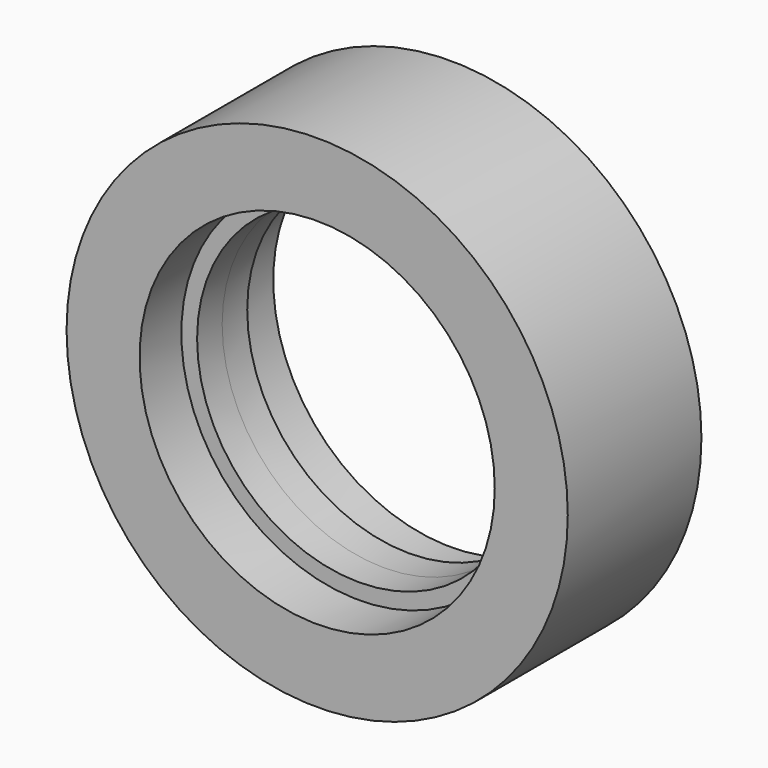
from build123d import *

# Parameters (mm, degrees)
F0_R     = 304.8
F0_R_2   = 196.85
F1_DEPTH = 38.1
F2_R     = 304.8
F2_R_2   = 215.9889
F3_DEPTH = 63.5


with BuildPart() as f1:
    # F0 (on Front) → F1 (new body)
    with BuildSketch(Plane.XZ):
        Circle(F0_R)
        Circle(F0_R_2, mode=Mode.SUBTRACT)
    extrude(amount=F1_DEPTH)

    # F2 (on face) → F3 (join)
    with BuildSketch(Plane.XZ.offset(38.1)):
        Circle(F2_R)
        Circle(F2_R_2, mode=Mode.SUBTRACT)
    extrude(amount=F3_DEPTH)

    # F4: F1 across face


with BuildPart() as f1_1:
    add(f1.part)
    add(f1.part.mirror(Plane(origin=(0, 0, 0), x_dir=(1, 0, 0), z_dir=(0, 1, 0))))


solid = f1_1.part
